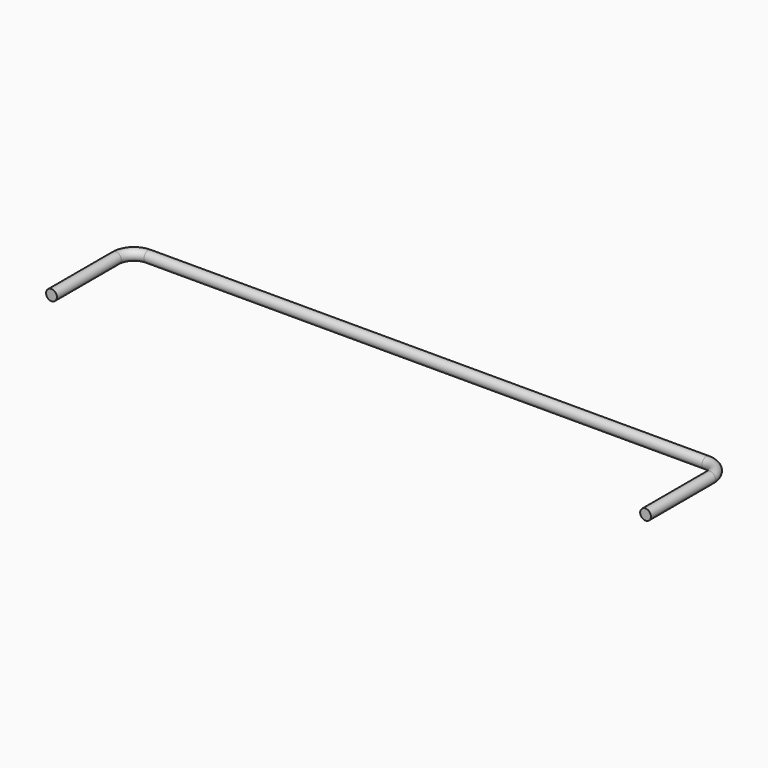
from build123d import *

# Parameters (mm, degrees)
F3_R = 1.5


with BuildPart() as f4:
    # F4: sweep along a path in F0
    with BuildLine(Plane.XY) as f4_path:
        Line((113.564999, 8.722895), (113.564999, 31.094736))
        ThreePointArc((113.564999, 31.094736), (112.100533, 34.63027), (108.564999, 36.094736))
        Line((108.564999, 36.094736), (-46.435001, 36.094736))
        ThreePointArc((-46.435001, 36.094736), (-49.970535, 34.63027), (-51.435001, 31.094736))
        Line((-51.435001, 31.094736), (-51.435001, 8.722895))
    # F3 (on face) → F4 (sweep)
    with BuildSketch(Plane.XZ.offset(-8.722895)):
        with Locations((113.56499, 0)):
            Circle(F3_R)
    sweep(path=f4_path.line)


solid = f4.part
